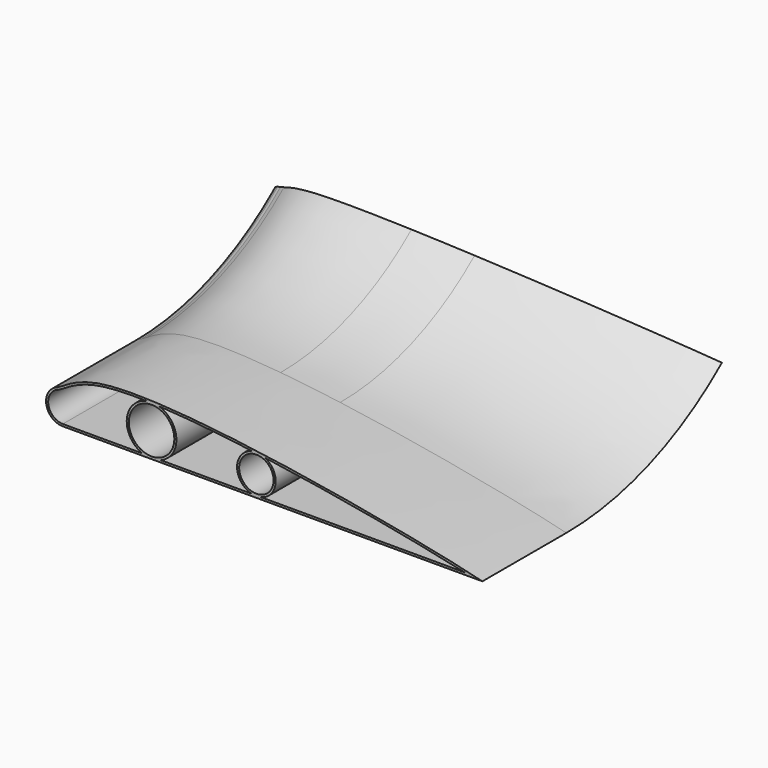
from build123d import *

# Parameters (mm, degrees)
F1_ANGLE    = 40
F1_FACE_R   = 4.1043861686
F1_FACE_R_2 = 5.4232355478
F2_DEPTH    = 25
F3_T        = -0.5


with BuildPart() as f1:
    # F0 (on Front) → F1 (revolve)
    with BuildSketch(Plane.XZ):
        with BuildLine():
            Line((40.8326969018, 7.5159238008), (40.8326969018, 2))
            Line((40.8326969018, 2), (50.9420263678, 1.267374051))
            ThreePointArc((50.9420263678, 1.267374051), (52.2402925946, 3.9760035296), (55.0356768072, 5.0750922212))
            Line((55.0356768072, 5.0750922212), (55.0356768072, 5.8651734237))
            add(Edge.make_bspline(
                [(40.8326969018, 7.5159238008), (45.3483542836, 7.0904554545), (50.1468954165, 6.5235202192), (55.0356768072, 5.8651734237)],
                knots=[0.4652672753, 0.4652672753, 0.4652672753, 0.4652672753, 0.5626736041, 0.5626736041, 0.5626736041, 0.5626736041], degree=3))
        make_face()
        with BuildLine():
            Line((40.8326969018, 2), (40.8326969018, -4))
            Line((40.8326969018, -4), (44.5024557412, -4))
            Line((44.5024557412, -4), (55.0356768072, -4))
            Line((55.0356768072, -4), (55.0356768072, -3.133680116))
            ThreePointArc((55.0356768072, -3.133680116), (52.0303793302, -1.82467816), (50.9420263678, 1.267374051))
            Line((50.9420263678, 1.267374051), (40.8326969018, 2))
        make_face()
        with BuildLine():
            Line((18.9058858157, -2), (18.9058858157, -4))
            Line((18.9058858157, -4), (40.8326969018, -4))
            Line((40.8326969018, -4), (40.8326969018, 2))
            Line((40.8326969018, 2), (35.4772553119, 2))
            ThreePointArc((35.4772553119, 2), (30.0540197641, -3.4232355478), (24.6307842162, 2))
            Line((24.6307842162, 2), (22.9058858157, 2))
            ThreePointArc((22.9058858157, 2), (21.7343129405, -0.8284271247), (18.9058858157, -2))
        make_face()
        with BuildLine():
            Line((35.4772553119, 2), (40.8326969018, 2))
            Line((40.8326969018, 2), (40.8326969018, 7.5159238008))
            add(Edge.make_bspline(
                [(18.9058858157, 8), (24.1332424557, 8.6434581142), (31.9336530673, 8.3543978355), (40.8326969018, 7.5159238008)],
                knots=[0.2733078071, 0.2733078071, 0.2733078071, 0.2733078071, 0.4652672753, 0.4652672753, 0.4652672753, 0.4652672753], degree=3))
            Line((18.9058858157, 8), (18.9058858157, 6))
            ThreePointArc((18.9058858157, 6), (21.7343129405, 4.8284271247), (22.9058858157, 2))
            Line((22.9058858157, 2), (24.6307842162, 2))
            ThreePointArc((24.6307842162, 2), (30.0540197641, 7.4232355478), (35.4772553119, 2))
        make_face()
        with BuildLine():
            ThreePointArc((12.9058858157, 0), (11.7343129405, -2.8284271247), (8.9058858157, -4))
            Line((8.9058858157, -4), (18.9058858157, -4))
            Line((18.9058858157, -4), (18.9058858157, -2))
            ThreePointArc((18.9058858157, -2), (14.9058858157, 2), (18.9058858157, 6))
            Line((18.9058858157, 6), (18.9058858157, 8))
            add(Edge.make_bspline(
                [(8.9058858157, 4.5006336093), (10.8511633278, 5.675109352), (13.5053333591, 7.3352224578), (18.9058858157, 8)],
                knots=[0.0749882263, 0.0749882263, 0.0749882263, 0.0749882263, 0.2733078071, 0.2733078071, 0.2733078071, 0.2733078071], degree=3))
            Line((8.9058858157, 4.5006336093), (8.9058858157, 4))
            ThreePointArc((8.9058858157, 4), (11.7343129405, 2.8284271247), (12.9058858157, 0))
        make_face()
        with BuildLine():
            Line((8.9058858157, 0), (8.9058858157, -4))
            ThreePointArc((8.9058858157, -4), (11.7343129405, -2.8284271247), (12.9058858157, 0))
            ThreePointArc((12.9058858157, 0), (11.7343129405, 2.8284271247), (8.9058858157, 4))
            Line((8.9058858157, 4), (8.9058858157, 0))
        make_face()
        with BuildLine():
            ThreePointArc((6.8931616097, 3.4567240663), (5.0440924328, -1.0423779868), (8.9058858157, -4))
            Line((8.9058858157, -4), (8.9058858157, 0))
            Line((8.9058858157, 0), (8.9058858157, 4))
            ThreePointArc((8.9058858157, 4), (8.3056033579, 3.9547011228), (7.7189169607, 3.8198304854))
            add(Edge.make_bspline(
                [(6.8931616097, 3.4567240663), (7.1671692641, 3.5526761618), (7.4395796175, 3.6757769611), (7.7189169607, 3.8198304854)],
                knots=[0, 0, 0, 0, 0.0319560574, 0.0319560574, 0.0319560574, 0.0319560574], degree=3))
        make_face()
        with BuildLine():
            Line((55.0356768072, -3.133680116), (55.0356768072, -4))
            Line((55.0356768072, -4), (108.9058858157, -4))
            add(Edge.make_bspline(
                [(55.0356768072, 5.8651734237), (76.9848989248, 2.9093856947), (100.7531405588, -1.8890320981), (108.9058858157, -4)],
                knots=[0.5626736041, 0.5626736041, 0.5626736041, 0.5626736041, 1, 1, 1, 1], degree=3))
            Line((55.0356768072, 5.8651734237), (55.0356768072, 5.0750922212))
            ThreePointArc((55.0356768072, 5.0750922212), (57.9379160996, 3.872945345), (59.1400629758, 0.9707060526))
            ThreePointArc((59.1400629758, 0.9707060526), (57.9379160996, -1.9315332398), (55.0356768072, -3.133680116))
        make_face()
        with BuildLine():
            ThreePointArc((7.7189169607, 3.8198304854), (8.3056033579, 3.9547011228), (8.9058858157, 4))
            Line((8.9058858157, 4), (8.9058858157, 4.5006336093))
            add(Edge.make_bspline(
                [(7.7189169607, 3.8198304854), (8.0950738688, 4.0138136016), (8.483791789, 4.2457912064), (8.9058858157, 4.5006336093)],
                knots=[0.0319560574, 0.0319560574, 0.0319560574, 0.0319560574, 0.0749882263, 0.0749882263, 0.0749882263, 0.0749882263], degree=3))
        make_face()
        with BuildLine():
            ThreePointArc((18.9058858157, 6), (14.9058858157, 2), (18.9058858157, -2))
            Line((18.9058858157, -2), (18.9058858157, 2))
            Line((18.9058858157, 2), (18.9058858157, 6))
        make_face()
        with BuildLine():
            Line((18.9058858157, 2), (18.9058858157, -2))
            ThreePointArc((18.9058858157, -2), (21.7343129405, -0.8284271247), (22.9058858157, 2))
            Line((22.9058858157, 2), (18.9058858157, 2))
        make_face()
        with BuildLine():
            Line((18.9058858157, 6), (18.9058858157, 2))
            Line((18.9058858157, 2), (22.9058858157, 2))
            ThreePointArc((22.9058858157, 2), (21.7343129405, 4.8284271247), (18.9058858157, 6))
        make_face()
    revolve(axis=Axis((19.3856610358, 0, 68.1242272258), (1, 0, 0)), revolution_arc=F1_ANGLE)

    # F1_face (on face) → F2 (join)
    with BuildSketch(Plane(origin=(46.8897955457, 0, 0.7284489575), x_dir=(1, 0, 0), z_dir=(0, -1, 0))):
        with BuildLine():
            ThreePointArc((-39.996633936, 2.7282751088), (-41.8457031129, -1.7708269443), (-37.98390973, -4.7284489575))
            Line((-37.98390973, -4.7284489575), (62.01609027, -4.7284489575))
            add(Edge.make_bspline(
                [(62.01609027, -4.7284489575), (48.4689173024, -1.220716728), (-29.5061349396, 13.8175317575), (-37.6531523766, 3.5489162949), (-39.996633936, 2.7282751088)],
                knots=[0.5626736041, 0.5626736041, 0.5626736041, 0.5626736041, 1.289365797, 1.5626736041, 1.5626736041, 1.5626736041, 1.5626736041], degree=3))
        make_face()
        with Locations((8.1458812615, 0.2422570952)):
            Circle(F1_FACE_R, mode=Mode.SUBTRACT)
        with Locations((-16.8357757816, 1.2715510425)):
            Circle(F1_FACE_R_2, mode=Mode.SUBTRACT)
    extrude(amount=F2_DEPTH)

    # F3
    f3_openings = [f1.faces().sort_by_distance(p)[0] for p in [
        (46.889796, -25, 0.728449),
    ]]
    offset(amount=F3_T, openings=f3_openings)


solid = f1.part
